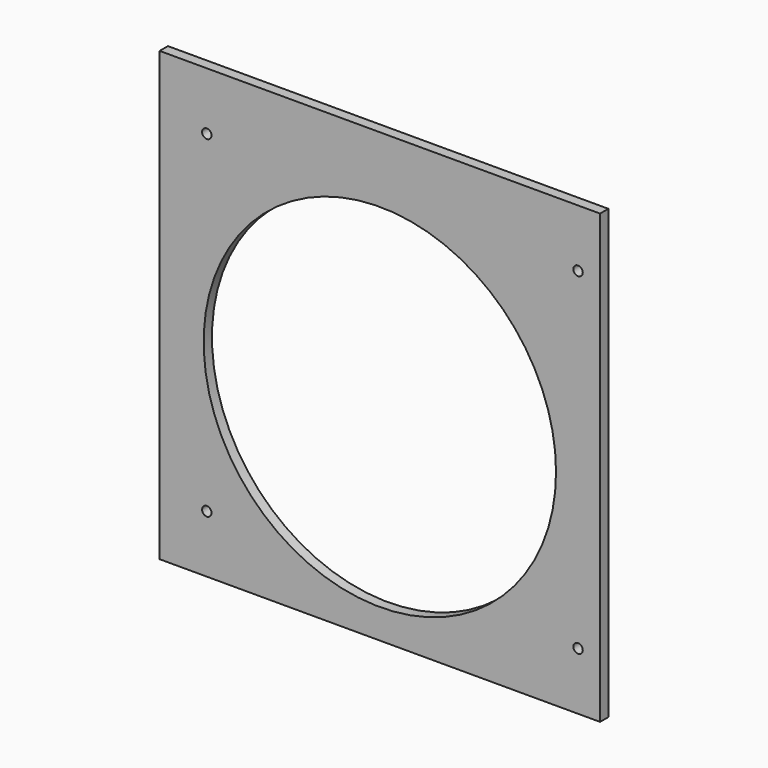
from build123d import *

# Parameters (mm, degrees)
F0_W     = 140
F0_H     = 142.25
F0_R     = 56
F1_DEPTH = 3.3
F2_R     = 1.5
F3_DEPTH = 3


with BuildPart() as f1:
    # F0 (on Front) → F1 (new body)
    with BuildSketch(Plane.XZ):
        Rectangle(F0_W, F0_H)
        with Locations((0, -5.75)):
            Circle(F0_R, mode=Mode.SUBTRACT)
    extrude(amount=F1_DEPTH)

    # F2 (on face) → F3 (cut)
    with BuildSketch(Plane.XZ.offset(3.3)):
        with Locations((63, 52.825)):
            Circle(F2_R)
        with Locations((-55, 52.825)):
            Circle(F2_R)
        with Locations((-55, -52.825)):
            Circle(F2_R)
        with Locations((63, -52.825)):
            Circle(F2_R)
    extrude(amount=-F3_DEPTH, mode=Mode.SUBTRACT)


solid = f1.part
